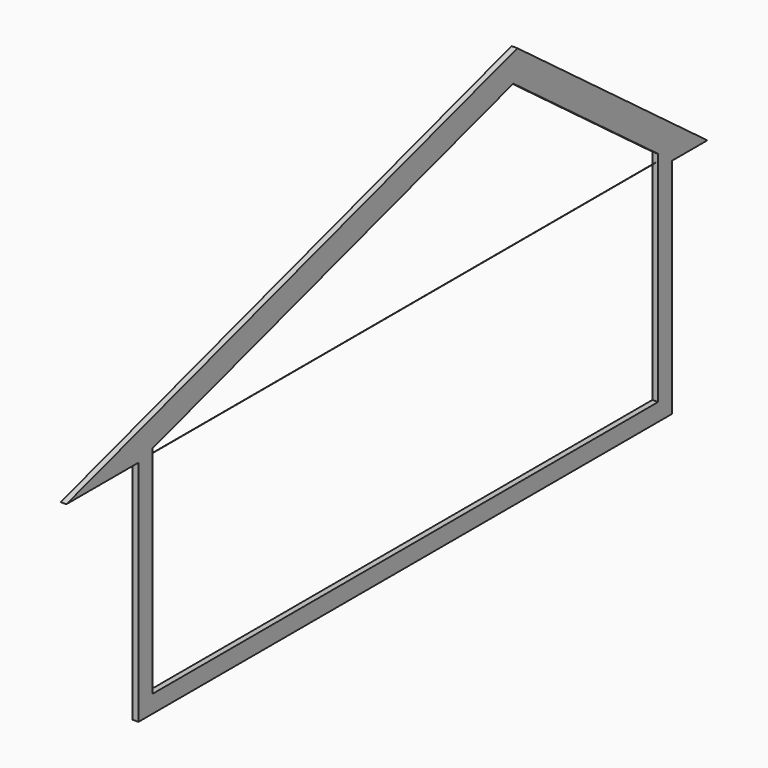
from build123d import *

# Parameters (mm, degrees)
F1_DEPTH = 10
F2_W     = 7200
F2_H     = 45
F2_W_2   = 45
F2_W_3   = 110
F3_DEPTH = 45
F4_W     = 7200
F4_H     = 110
F5_DEPTH = 10
F6_R     = 1.25
F7_DEPTH = 7400


with BuildPart() as f1:
    # F0 (on Right) → F1 (new body)
    with BuildSketch(Plane.YZ):
        Polygon((0, 2600), (0, 0), (7600, 0), (7600, 2539.0500439446), (7600, 2913.7075269461), (5395.1268947942, 4563.1633490475), (0, 2913.7075269461), align=None)
        Polygon((7400, 200), (200, 200), (200, 2661.1461362917), (5337.2900782842, 4231.7733327764), (7400, 2688.6691597302), align=None, mode=Mode.SUBTRACT)
        Polygon((-1026.09108595, 2600), (0, 2600), (0, 2913.7075269461), align=None)
        Polygon((7600, 2913.7075269461), (7600, 2539.0500439446), (8100.8149941729, 2539.0500439446), align=None)
    extrude(amount=F1_DEPTH)

    # F2 (on face) → F3 (join)
    with BuildSketch(Plane.YZ.offset(10)):
        Polygon((-724.9890552257, 2645), (-872.1774230575, 2600), (0, 2600), (0, 2645), align=None)
        Polygon((-1026.09108595, 2600), (-872.1774230575, 2600), (-724.9890552257, 2645), (0, 2866.6513979042), (45, 2880.4092785699), (155, 2914.0396535303), (200, 2927.797534196), (5386.4513723177, 4513.4548466069), (5395.1268947942, 4563.1633490475), align=None)
        Polygon((0, 2645), (0, 2600), (0, 0), (45, 0), (45, 45), (45, 2880.4092785699), (0, 2866.6513979042), align=None)
        Polygon((200, 2927.797534196), (155, 2914.0396535303), (155, 45), (155, 0), (200, 0), (200, 45), (200, 155), (200, 200), (200, 2661.1461362917), (200, 2708.2022653337), align=None)
        Polygon((5345.9656007607, 4281.4818352171), (200, 2708.2022653337), (200, 2661.1461362917), (5337.2900782842, 4231.7733327764), align=None)
        with Locations((3800, 177.5)):
            Rectangle(F2_W, F2_H)
        with Locations((3800, 22.5)):
            Rectangle(F2_W, F2_H)
        Polygon((7400, 2688.6691597302), (7400, 2744.8677821804), (5345.9656007607, 4281.4818352171), (5337.2900782842, 4231.7733327764), align=None)
        Polygon((8100.8149941729, 2539.0500439446), (5395.1268947942, 4563.1633490475), (5386.4513723177, 4513.4548466069), (7400, 3007.1280202815), (7445, 2973.4637192297), (7555, 2891.1732055477), (7600, 2857.5089044959), (7965.5400035156, 2584.0500439446), (8025.6927450469, 2539.0500439446), align=None)
        with Locations((7422.5, 22.5)):
            Rectangle(F2_W_2, F2_H)
        Polygon((7445, 2973.4637192297), (7400, 3007.1280202815), (7400, 2744.8677821804), (7400, 2688.6691597302), (7400, 200), (7400, 155), (7400, 45), (7445, 45), align=None)
        Polygon((7600, 0), (7600, 2539.0500439446), (7600, 2584.0500439446), (7600, 2857.5089044959), (7555, 2891.1732055477), (7555, 45), (7555, 0), align=None)
        Polygon((7600, 2539.0500439446), (8025.6927450469, 2539.0500439446), (7965.5400035156, 2584.0500439446), (7600, 2584.0500439446), align=None)
        Polygon((7445, 2973.4637192297), (7400, 3007.1280202815), (7400, 2744.8677821804), (7400, 2688.6691597302), (7400, 200), (7400, 155), (7400, 45), (7445, 45), align=None)
        with Locations((7500, 22.5)):
            Rectangle(F2_W_3, F2_H)
        with Locations((100, 22.5)):
            Rectangle(F2_W_3, F2_H)
    extrude(amount=F3_DEPTH)

    # F4 (on face) → F5 (join)
    with BuildSketch(Plane.YZ.offset(55)):
        Polygon((0, 0), (7600, 0), (7600, 2539.0500439446), (8100.8149941729, 2539.0500439446), (5395.1268947942, 4563.1633490475), (-1026.09108595, 2600), (0, 2600), align=None)
        Polygon((155, 45), (45, 45), (45, 2880.4092785699), (155, 2914.0396535303), align=None, mode=Mode.SUBTRACT)
        with Locations((3800, 100)):
            Rectangle(F4_W, F4_H, mode=Mode.SUBTRACT)
        Polygon((200, 2661.1461362917), (5337.2900782842, 4231.7733327764), (7400, 2688.6691597302), (7400, 200), (200, 200), align=None, mode=Mode.SUBTRACT)
        Polygon((7555, 45), (7445, 45), (7445, 2973.4637192297), (7555, 2891.1732055477), align=None, mode=Mode.SUBTRACT)
        Polygon((0, 2866.6513979042), (0, 2645), (-724.9890552257, 2645), align=None, mode=Mode.SUBTRACT)
        Polygon((7965.5400035156, 2584.0500439446), (7600, 2584.0500439446), (7600, 2857.5089044959), align=None, mode=Mode.SUBTRACT)
        Polygon((200, 2927.797534196), (5386.4513723177, 4513.4548466069), (7400, 3007.1280202815), (7400, 2744.8677821804), (5345.9656007607, 4281.4818352171), (200, 2708.2022653337), align=None, mode=Mode.SUBTRACT)
        Polygon((7400, 3007.1280202815), (5386.4513723177, 4513.4548466069), (200, 2927.797534196), (200, 2708.2022653337), (5345.9656007607, 4281.4818352171), (7400, 2744.8677821804), align=None)
        with Locations((3800, 100)):
            Rectangle(F4_W, F4_H)
        Polygon((7445, 2973.4637192297), (7445, 45), (7555, 45), (7555, 2891.1732055477), align=None)
        Polygon((45, 2880.4092785699), (45, 45), (155, 45), (155, 2914.0396535303), align=None)
        Polygon((-724.9890552257, 2645), (0, 2645), (0, 2866.6513979042), align=None)
        Polygon((7600, 2857.5089044959), (7600, 2584.0500439446), (7965.5400035156, 2584.0500439446), align=None)
    extrude(amount=F5_DEPTH)

    # F6 (on face) → F7 (join, through all)
    with BuildSketch(Plane.XZ):
        with Locations((35, 2590)):
            Circle(F6_R)
    extrude(amount=-F7_DEPTH)


solid = f1.part
